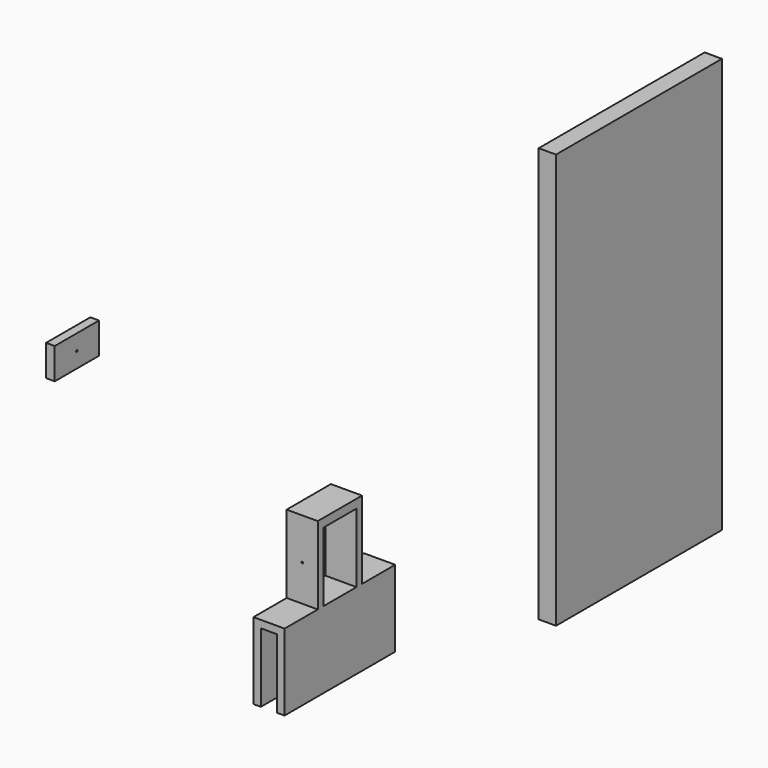
from build123d import *

# Parameters (mm, degrees)
F1_DEPTH  = 101.6
F2_W      = 152.4
F2_H      = 304.8
F3_DEPTH  = 12.7
F4_W      = 22.86
F4_H      = 5.08
F5_DEPTH  = 50.8
F6_W      = 22.86
F6_H      = 5.08
F6_H_2    = 96.52
F7_DEPTH  = 6.35
F8_R      = 1.27
F9_DEPTH  = 7.62
F10_W     = 22.86
F10_H     = 30.48
F10_R     = 1.27
F11_DEPTH = 57.15
F12_R     = 0.635
F13_DEPTH = 25.4
F14_W     = 40.64
F14_H     = 22.86
F15_DEPTH = 6.35
F16_R     = 0.635
F17_DEPTH = 25.4
F18_W     = 10.16
F18_H     = 10.16
F19_DEPTH = 1.27


with BuildPart() as f1:
    # F0 (on Front) → F1 (new body)
    with BuildSketch(Plane.XZ):
        Polygon((12.206776, 4.235318), (17.667776, 4.235318), (17.667776, 55.035318), (29.605776, 55.035318), (29.605776, 4.235318), (35.066776, 4.235318), (35.066776, 60.496318), (12.206776, 60.496318), align=None)
    extrude(amount=F1_DEPTH)

    # F4 (on face) → F5 (join)
    with BuildSketch(Plane.XY.offset(60.496318)):
        with Locations((23.636776, -2.54)):
            Rectangle(F4_W, F4_H)
        with Locations((23.636776, -33.02)):
            Rectangle(F4_W, F4_H)
        with Locations((23.636776, -68.58)):
            Rectangle(F4_W, F4_H)
        with Locations((23.636776, -99.06)):
            Rectangle(F4_W, F4_H)
    extrude(amount=F5_DEPTH)

    # F6 (on face) → F7 (join)
    with BuildSketch(Plane.XY.offset(111.296318)):
        with Locations((23.636776, -99.06)):
            Rectangle(F6_W, F6_H)
        with Locations((23.636776, -48.26)):
            Rectangle(F6_W, F6_H_2)
    extrude(amount=F7_DEPTH)

    # F8 (on face) → F9 (cut)
    with BuildSketch(Plane.XY.offset(117.646318)):
        with Locations((23.636776, -83.82)):
            Circle(F8_R)
        with Locations((23.636776, -17.78)):
            Circle(F8_R)
    extrude(amount=-F9_DEPTH, mode=Mode.SUBTRACT)

    # F10 (on face) → F11 (cut)
    with BuildSketch(Plane.XY.offset(117.646318)):
        with Locations((23.636776, -86.36)):
            Rectangle(F10_W, F10_H)
        with Locations((23.636776, -83.82)):
            Circle(F10_R, mode=Mode.SUBTRACT)
        with Locations((23.636776, -15.24)):
            Rectangle(F10_W, F10_H)
        with Locations((23.636776, -17.78)):
            Circle(F10_R, mode=Mode.SUBTRACT)
    extrude(amount=-F11_DEPTH, mode=Mode.SUBTRACT)

    # F12 (on face) → F13 (cut)
    with BuildSketch(Plane.XZ.offset(71.12)):
        with Locations((23.636776, 87.166318)):
            Circle(F12_R)
    extrude(amount=-F13_DEPTH, mode=Mode.SUBTRACT)


with BuildPart() as f3:
    # F2 (on Right) → F3 (new body)
    with BuildSketch(Plane.YZ):
        with Locations((251.834206, 94.748187)):
            Rectangle(F2_W, F2_H)
    extrude(amount=F3_DEPTH)


with BuildPart() as f15:
    # F14 (on face) → F15 (new body)
    with BuildSketch(Plane(origin=(0, 0, 0), x_dir=(0, -1, 0), z_dir=(-1, 0, 0))):
        with Locations((248.551563, 288.44516)):
            Rectangle(F14_W, F14_H)
    extrude(amount=F15_DEPTH)

    # F16 (on face) → F17 (cut)
    with BuildSketch(Plane(origin=(-6.35, 0, 0), x_dir=(0, -1, 0), z_dir=(-1, 0, 0))):
        with Locations((248.551563, 288.44516)):
            Circle(F16_R)
    extrude(amount=-F17_DEPTH, mode=Mode.SUBTRACT)

    # F18 (on face) → F19 (cut)
    with BuildSketch(Plane(origin=(-6.35, 0, 0), x_dir=(0, -1, 0), z_dir=(-1, 0, 0))):
        with Locations((248.551563, 288.44516)):
            Rectangle(F18_W, F18_H)
    extrude(amount=-F19_DEPTH, mode=Mode.SUBTRACT)


solid = Compound([f1.part, f3.part, f15.part])
